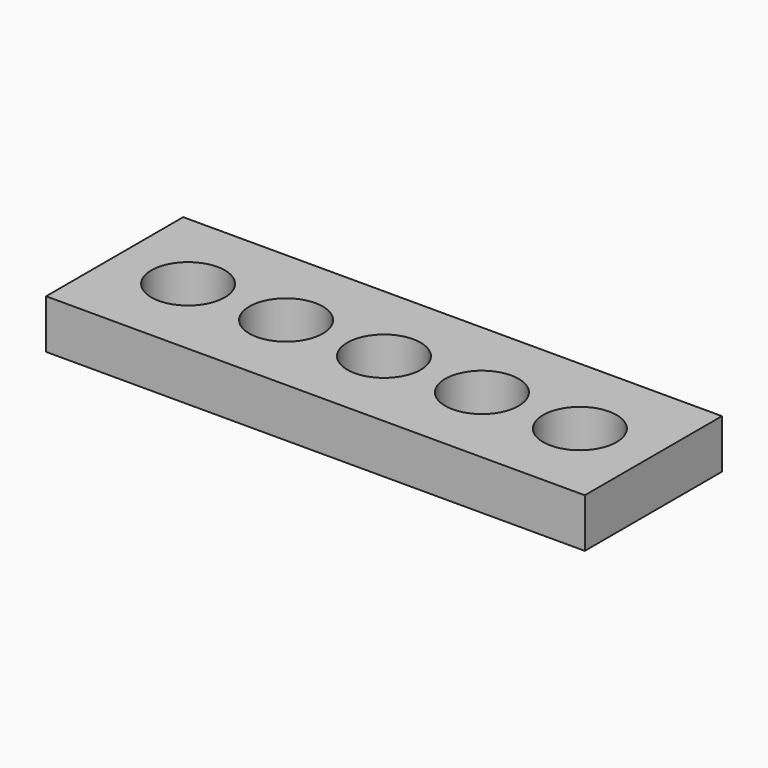
from build123d import *

# Parameters (mm, degrees)
CYLINDER_R     = 1.5
CYLINDER_DEPTH = 5
ARRAY_X_COUNT  = 5
ARRAY_X_PITCH  = 4
BOX_W          = 22
BOX_H          = 7
BOX_DEPTH      = 2


with BuildPart() as array:
    # Cylinder → Cylinder (new body)
    with BuildSketch(Plane.XY):
        Circle(CYLINDER_R)
    extrude(amount=CYLINDER_DEPTH)

    # Array X: Array ×5


with BuildPart() as array_1:
    add(array.part)
    with Locations(*[(i * ARRAY_X_PITCH, 0, 0) for i in range(1, ARRAY_X_COUNT)]):
        add(array.part)


with BuildPart() as cut:
    # Box → Box (new body)
    with BuildSketch(Plane(origin=(-3, -3.5, 2), x_dir=(1, 0, 0), z_dir=(0, 0, 1))):
        with Locations((11, 3.5)):
            Rectangle(BOX_W, BOX_H)
    extrude(amount=BOX_DEPTH)

    # Cut: cut Array
    add(array_1.part, mode=Mode.SUBTRACT)


solid = cut.part
